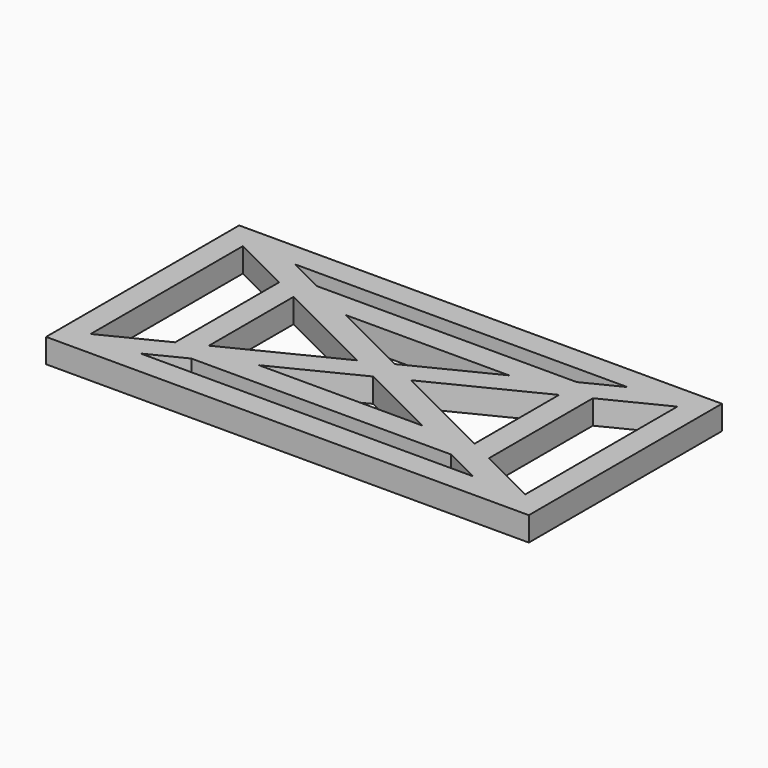
from build123d import *

# Parameters (mm, degrees)
F2_DEPTH = 2


with BuildPart() as f2:
    # F1 (on Top) → F2 (new body)
    with BuildSketch(Plane.XY):
        Polygon((17.7639320225, 10), (-17.7639320225, 10), (-13.7639320225, 8), (13.7639320225, 8), align=None)
        Polygon((10.7639320225, 6.5), (-10.7639320225, 6.5), (-6.7639320225, 4.5), (6.7639320225, 4.5), align=None)
        Polygon((-18, 7.8819660113), (-20, 8.8819660113), (-20, -8.8819660113), (-18, -7.8819660113), align=None)
        Polygon((-11, 4.3819660113), (-13, 5.3819660113), (-13, -5.3819660113), (-11, -4.3819660113), align=None)
        Polygon((-2.2360679775, 0), (-11, -4.3819660113), (-11, -4.5), (-6.7639320225, -4.5), (0, -1.1180339887), align=None)
        Polygon((20, -8.8819660113), (20, 8.8819660113), (18, 7.8819660113), (18, -7.8819660113), align=None)
        Polygon((11, -4.3819660113), (2.2360679775, 0), (0, -1.1180339887), (6.7639320225, -4.5), (11, -4.5), align=None)
        Polygon((11, 4.5), (6.7639320225, 4.5), (0, 1.1180339887), (2.2360679775, 0), (11, 4.3819660113), align=None)
        Polygon((-17.7639320225, 10), (-20, 10), (-20, 8.8819660113), (-18, 7.8819660113), (-18, 8), (-13.7639320225, 8), align=None)
        Polygon((-10.7639320225, 6.5), (-13.7639320225, 8), (-18, 8), (-18, 7.8819660113), (-13, 5.3819660113), (-13, 6.5), align=None)
        Polygon((-6.7639320225, 4.5), (-10.7639320225, 6.5), (-13, 6.5), (-13, 5.3819660113), (-11, 4.3819660113), (-11, 4.5), align=None)
        Polygon((20, 10), (17.7639320225, 10), (13.7639320225, 8), (18, 8), (18, 7.8819660113), (20, 8.8819660113), align=None)
        Polygon((18, 8), (13.7639320225, 8), (10.7639320225, 6.5), (13, 6.5), (13, 5.3819660113), (18, 7.8819660113), align=None)
        Polygon((13, 6.5), (10.7639320225, 6.5), (6.7639320225, 4.5), (11, 4.5), (11, 4.3819660113), (13, 5.3819660113), align=None)
        Polygon((2.2360679775, 0), (0, 1.1180339887), (-2.2360679775, 0), (0, -1.1180339887), align=None)
        Polygon((0, 1.1180339887), (-6.7639320225, 4.5), (-11, 4.5), (-11, 4.3819660113), (-2.2360679775, 0), align=None)
        Polygon((-11, -4.3819660113), (-13, -5.3819660113), (-13, -6.5), (-10.7639320225, -6.5), (-6.7639320225, -4.5), (-11, -4.5), align=None)
        Polygon((-13, -5.3819660113), (-18, -7.8819660113), (-18, -8), (-13.7639320225, -8), (-10.7639320225, -6.5), (-13, -6.5), align=None)
        Polygon((-18, -7.8819660113), (-20, -8.8819660113), (-20, -10), (-17.7639320225, -10), (-13.7639320225, -8), (-18, -8), align=None)
        Polygon((-13.7639320225, -8), (-17.7639320225, -10), (17.7639320225, -10), (13.7639320225, -8), align=None)
        Polygon((20, -10), (20, -8.8819660113), (18, -7.8819660113), (18, -8), (13.7639320225, -8), (17.7639320225, -10), align=None)
        Polygon((18, -8), (18, -7.8819660113), (13, -5.3819660113), (13, -6.5), (10.7639320225, -6.5), (13.7639320225, -8), align=None)
        Polygon((13, -6.5), (13, -5.3819660113), (11, -4.3819660113), (11, -4.5), (6.7639320225, -4.5), (10.7639320225, -6.5), align=None)
        Polygon((-6.7639320225, -4.5), (-10.7639320225, -6.5), (10.7639320225, -6.5), (6.7639320225, -4.5), align=None)
        Polygon((13, -5.3819660113), (13, 5.3819660113), (11, 4.3819660113), (11, -4.3819660113), align=None)
    extrude(amount=F2_DEPTH)


solid = f2.part
